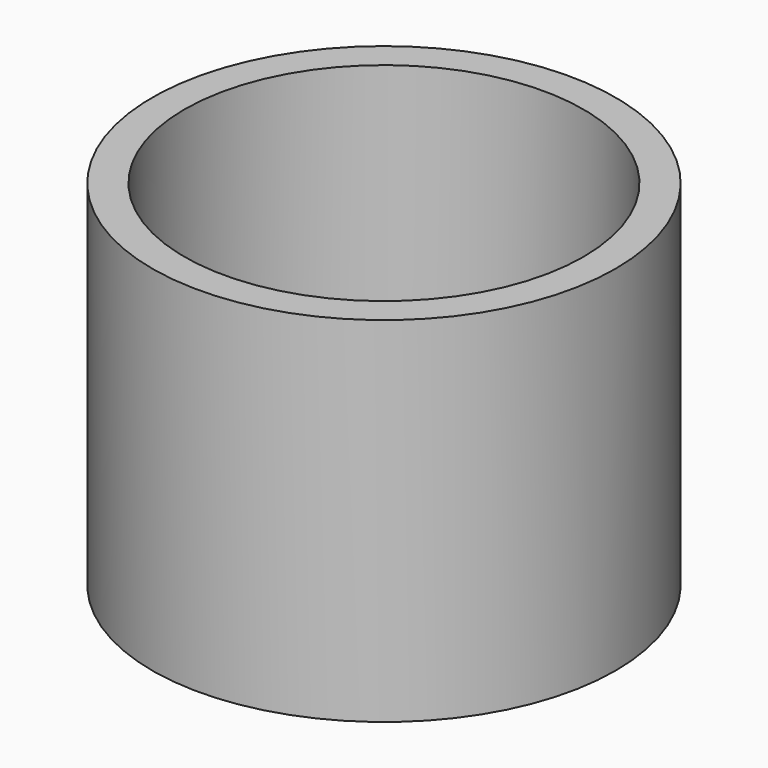
from build123d import *

# Parameters (mm, degrees)
F0_R     = 77.1800342887
F0_R_2   = 66.4755295027
F1_DEPTH = 25.4
F2_DEPTH = 25.4
F3_DEPTH = 67.056


with BuildPart() as f1:
    # F0 (on Top) → F1 (new body)
    with BuildSketch(Plane.XY):
        Circle(F0_R)
        Circle(F0_R_2, mode=Mode.SUBTRACT)
    extrude(amount=F1_DEPTH)

    # F2 (add): faces of the model
    f2_faces = [f1.faces().sort_by_distance(p)[0] for p in [
        (-74.997053264, 0, 0),
        (-74.997053264, 0, 25.4),
    ]]
    extrude(f2_faces, amount=F2_DEPTH, dir=(0, 0, -1))

    # F3 (add): a face of the model
    f3_faces = [f1.faces().sort_by_distance(p)[0] for p in [
        (-74.997053264, 0, 25.4),
    ]]
    extrude(f3_faces, amount=F3_DEPTH)


solid = f1.part
